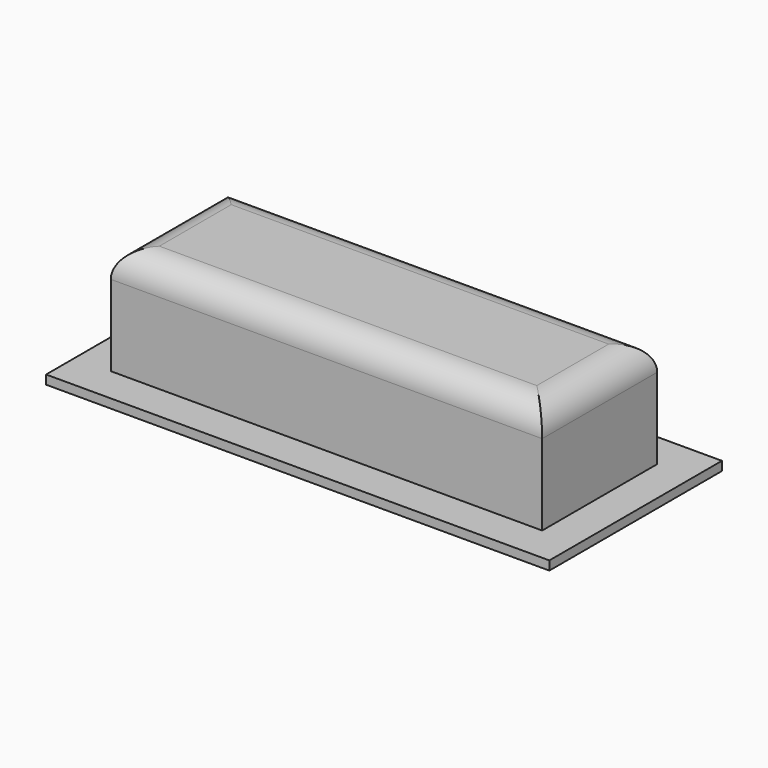
from build123d import *

# Parameters (mm, degrees)
SKETCH_W     = 28
SKETCH_H     = 12
PAD_DEPTH    = 0.5
SKETCH001_W  = 24
SKETCH001_H  = 8
PAD001_DEPTH = 6
FILLET_R     = 1.5


with BuildPart() as pad:
    # Sketch → Pad (new body)
    with BuildSketch(Plane.XY):
        with Locations((14, 6)):
            Rectangle(SKETCH_W, SKETCH_H)
    extrude(amount=PAD_DEPTH)


with BuildPart() as fillet_body:
    # Sketch001 → Pad001 (new body)
    with BuildSketch(Plane.XY.offset(0.5)):
        with Locations((14, 6)):
            Rectangle(SKETCH001_W, SKETCH001_H)
    extrude(amount=PAD001_DEPTH)

    # Fillet
    fillet_edges = [fillet_body.edges().sort_by_distance(p)[0] for p in [
        (14, 2, 6.5),
        (26, 6, 6.5),
        (14, 10, 6.5),
        (2, 6, 6.5),
    ]]
    fillet(fillet_edges, radius=FILLET_R)


solid = Compound([pad.part, fillet_body.part])
